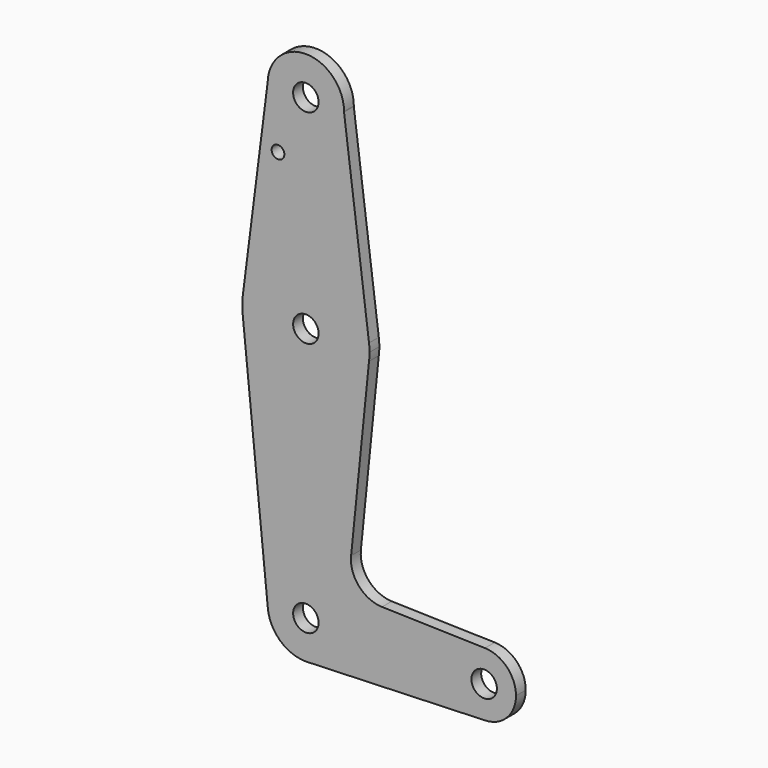
from build123d import *

# Parameters (mm, degrees)
F0_R     = 3.175
F0_R_2   = 1.5875
F1_DEPTH = 3.048


with BuildPart() as f1:
    # F0 (on Front) → F1 (new body)
    with BuildSketch(Plane.XZ):
        with BuildLine():
            ThreePointArc((-17.7467099547, -22.3466117023), (-11.3759947082, -19.3724591375), (-8.7811602604, -12.8380555367))
            ThreePointArc((-8.7811602604, -12.8380555367), (-18.7826002225, -3.3249787493), (-27.7834972605, -13.7897426639))
            ThreePointArc((-27.7834972605, -13.7897426639), (-24.6515400394, -19.9417011121), (-18.186524218, -22.3623041799))
            Line((-18.186524218, -22.3623041799), (-17.7467099547, -22.3466117023))
        make_face()
        with Locations((-18.3061602604, -12.8380555367)):
            Circle(F0_R, mode=Mode.SUBTRACT)
        with BuildLine():
            ThreePointArc((-27.7834972605, -13.7897426639), (-18.7826002225, -3.3249787493), (-8.7811602604, -12.8380555367))
            ThreePointArc((-8.7811602604, -12.8380555367), (-11.3759947082, -19.3724591375), (-17.7467099547, -22.3466117023))
            Line((-17.7467099547, -22.3466117023), (26.4268679215, -20.770508023))
            ThreePointArc((26.4268679215, -20.770508023), (18.2064199134, -12.8737312727), (26.355551253, -4.9033795297))
            Line((26.355551253, -4.9033795297), (0.6739995634, -4.2181492667))
            ThreePointArc((0.6739995634, -4.2181492667), (-5.0823614763, -1.5228008104), (-7.0237588682, 4.529601348))
            Line((-7.0237588682, 4.529601348), (-2.5597780301, 48.6452416051))
            ThreePointArc((-2.5597780301, 48.6452416051), (-18.3154510772, 34.7869471824), (-34.0548912059, 48.6636752517))
            Line((-34.0548912059, 48.6636752517), (-27.7834972605, -13.7897426639))
        make_face()
        with BuildLine():
            ThreePointArc((-18.186524218, -22.3623041799), (-17.9665264421, -22.3569984333), (-17.7467099547, -22.3466117023))
            Line((-17.7467099547, -22.3466117023), (-18.186524218, -22.3623041799))
        make_face()
        with BuildLine():
            Line((-34.0548912059, 52.6602136749), (-34.0548912059, 48.6636752517))
            ThreePointArc((-34.0548912059, 48.6636752517), (-18.3154510772, 34.7869471824), (-2.5597780301, 48.6452416051))
            Line((-2.5597780301, 48.6452416051), (-2.5597780301, 52.6786473216))
            ThreePointArc((-2.5597780301, 52.6786473216), (-18.3154510772, 66.5369417442), (-34.0548912059, 52.6602136749))
        make_face()
        with Locations((-18.3061596646, 50.6619444633)):
            Circle(F0_R, mode=Mode.SUBTRACT)
        with BuildLine():
            ThreePointArc((-34.0548912059, 52.6602136749), (-34.1811596646, 50.6619444633), (-34.0548912059, 48.6636752517))
            Line((-34.0548912059, 48.6636752517), (-34.0548912059, 52.6602136749))
        make_face()
        with BuildLine():
            ThreePointArc((26.355551253, -4.9033795297), (18.2064199134, -12.8737312727), (26.4268679215, -20.770508023))
            ThreePointArc((26.4268679215, -20.770508023), (31.8556889342, -18.3497418327), (34.0813397396, -12.8380556091))
            ThreePointArc((34.0813397396, -12.8380556091), (31.8308585714, -7.3007527407), (26.355551253, -4.9033795297))
        make_face()
        with Locations((26.1438397396, -12.8380556091)):
            Circle(F0_R, mode=Mode.SUBTRACT)
        with BuildLine():
            Line((-27.8348205075, 101.6817484254), (-34.0548912059, 52.6602136749))
            ThreePointArc((-34.0548912059, 52.6602136749), (-18.3154510772, 66.5369417442), (-2.5597780301, 52.6786473216))
            Line((-2.5597780301, 52.6786473216), (-8.7885275926, 101.3126180211))
            ThreePointArc((-8.7885275926, 101.3126180211), (-18.4969234674, 91.9387328086), (-27.8348205075, 101.6817484254))
        make_face()
        with Locations((-25.2582300454, 87.1871444633)):
            Circle(F0_R_2, mode=Mode.SUBTRACT)
        with BuildLine():
            Line((-2.5597780301, 52.6786473216), (-2.5597780301, 48.6452416051))
            ThreePointArc((-2.5597780301, 48.6452416051), (-2.4633468864, 49.6515444061), (-2.4311596646, 50.6619444633))
            ThreePointArc((-2.4311596646, 50.6619444633), (-2.4633468864, 51.6723445205), (-2.5597780301, 52.6786473216))
        make_face()
        with BuildLine():
            ThreePointArc((-8.7873570017, 101.4619444633), (-18.2024477033, 110.9863103186), (-27.8348205075, 101.6817484254))
            ThreePointArc((-27.8348205075, 101.6817484254), (-18.4969234674, 91.9387328086), (-8.7885275926, 101.3126180211))
            ThreePointArc((-8.7885275926, 101.3126180211), (-8.7876496539, 101.3872789481), (-8.7873570017, 101.4619444633))
        make_face()
        with Locations((-18.3123570017, 101.4619444633)):
            Circle(F0_R, mode=Mode.SUBTRACT)
    extrude(amount=F1_DEPTH)


solid = f1.part
